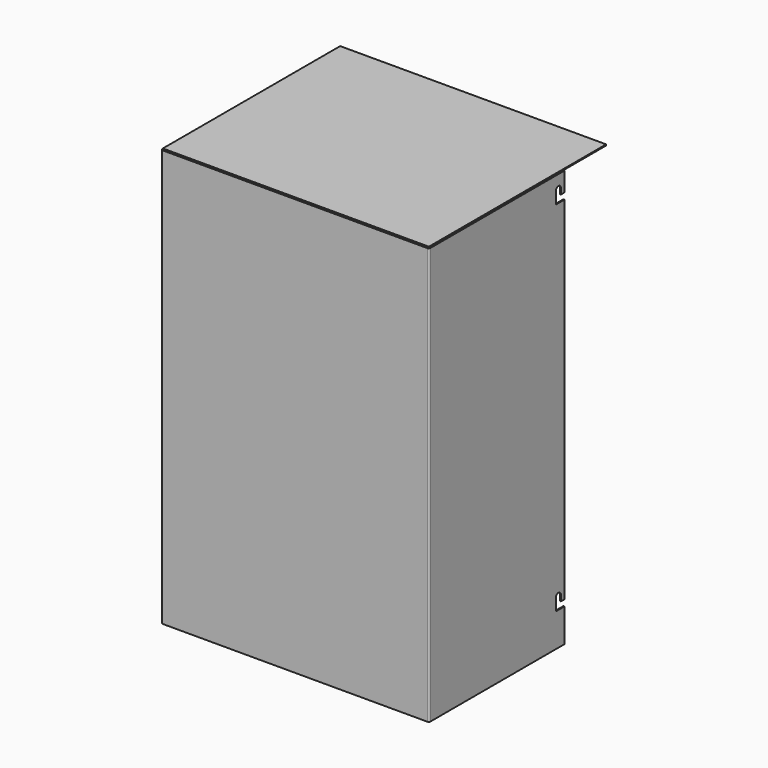
from build123d import *

# Parameters (mm, degrees)
F1_DEPTH  = 468
F3_DEPTH  = 1.2
F3_FACE_W = 298.6
F3_FACE_H = 1.2
F4_DEPTH  = 60
F6_DEPTH  = 1.2
F7_DEPTH  = 1.2
F9_DEPTH  = 1.2


with BuildPart() as f1:
    # F0 (on Top) → F1 (new body)
    with BuildSketch(Plane.XY):
        with BuildLine():
            Line((-299, 0), (-2, 0))
            ThreePointArc((-2, 0), (-0.585786, 0.585786), (0, 2))
            Line((0, 2), (0, 190))
            Line((0, 190), (-1.2, 190))
            Line((-1.2, 190), (-1.2, 2))
            ThreePointArc((-1.2, 2), (-1.434315, 1.434315), (-2, 1.2))
            Line((-2, 1.2), (-299, 1.2))
            ThreePointArc((-299, 1.2), (-299.565685, 1.434315), (-299.8, 2))
            Line((-299.8, 2), (-299.8, 190))
            Line((-299.8, 190), (-301, 190))
            Line((-301, 190), (-301, 2))
            ThreePointArc((-301, 2), (-300.414214, 0.585786), (-299, 0))
        make_face()
    extrude(amount=F1_DEPTH)



with BuildPart() as f3:
    # F2 (on face) → F3 (new body)
    with BuildSketch(Plane.XY.offset(468)):
        with BuildLine():
            Line((-1.2, 190), (-299.8, 190))
            Line((-299.8, 190), (-299.8, 2))
            ThreePointArc((-299.8, 2), (-299.565685, 1.434315), (-299, 1.2))
            Line((-299, 1.2), (-2, 1.2))
            ThreePointArc((-2, 1.2), (-1.434315, 1.434315), (-1.2, 2))
            Line((-1.2, 2), (-1.2, 190))
        make_face()
    extrude(amount=F3_DEPTH)


with BuildPart() as f1_1:
    add(f1.part)

    add(f3.part)  # F4 merges F3
    # F3_face (on face) → F4 (join)
    with BuildSketch(Plane(origin=(-150.5, 190, 468.6), x_dir=(-1, 0, 0), z_dir=(0, 1, 0))):
        Rectangle(F3_FACE_W, F3_FACE_H)
    extrude(amount=F4_DEPTH)

    # F5 (on face) → F6 (cut)
    with BuildSketch(Plane.YZ):
        with BuildLine():
            Line((178, 439.339846), (190, 439.339846))
            Line((190, 439.339846), (190, 446.339846))
            Line((190, 446.339846), (185, 446.339846))
            Line((185, 446.339846), (185, 452.839846))
            ThreePointArc((185, 452.839846), (181.5, 456.339846), (178, 452.839846))
            Line((178, 452.839846), (178, 439.339846))
        make_face()
    extrude(amount=-F6_DEPTH, mode=Mode.SUBTRACT)

    # F5 (on face) → F7 (cut)
    with BuildSketch(Plane.YZ):
        with BuildLine():
            Line((178, 37.300002), (190, 37.300002))
            Line((190, 37.300002), (190, 44.300002))
            Line((190, 44.300002), (185, 44.300002))
            Line((185, 44.300002), (185, 50.800002))
            ThreePointArc((185, 50.800002), (181.5, 54.300002), (178, 50.800002))
            Line((178, 50.800002), (178, 37.300002))
        make_face()
    extrude(amount=-F7_DEPTH, mode=Mode.SUBTRACT)

    # F8 (on face) → F9 (cut)
    with BuildSketch(Plane.YZ.offset(-299.8)):
        with BuildLine():
            Line((190, 44.300002), (185, 44.300002))
            Line((185, 44.300002), (185, 50.800002))
            ThreePointArc((185, 50.800002), (181.5, 54.300002), (178, 50.800002))
            Line((178, 50.800002), (178, 37.300002))
            Line((178, 37.300002), (190, 37.300002))
            Line((190, 37.300002), (190, 44.300002))
        make_face()
        with BuildLine():
            Line((178, 439.339846), (190, 439.339846))
            Line((190, 439.339846), (190, 446.339846))
            Line((190, 446.339846), (185, 446.339846))
            Line((185, 446.339846), (185, 452.839846))
            ThreePointArc((185, 452.839846), (181.5, 456.339846), (178, 452.839846))
            Line((178, 452.839846), (178, 439.339846))
        make_face()
    extrude(amount=-F9_DEPTH, mode=Mode.SUBTRACT)


solid = f1_1.part
